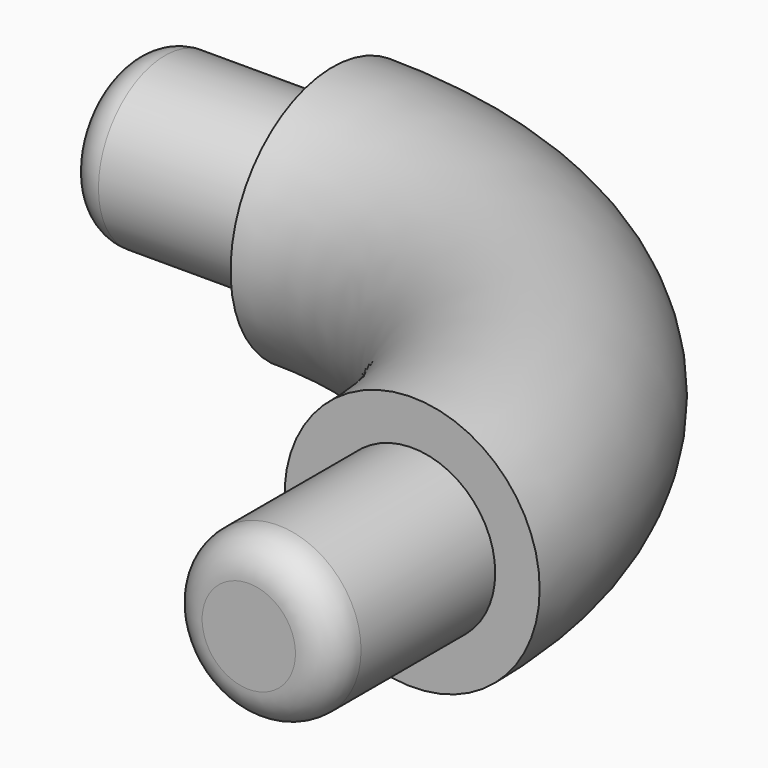
from build123d import *

# Parameters (mm, degrees)
F1_R     = 17.5
F3_R     = 11.4
F4_DEPTH = 28
F5_R     = 11.4
F6_DEPTH = 28
F7_R     = 5
F8_R     = 5


with BuildPart() as f2:
    # F2: sweep along a path in F0
    with BuildLine(Plane.XY) as f2_path:
        ThreePointArc((0, 54.5), (38.5373195747, 38.5373195747), (54.5, 0))
    # F1 (on Right) → F2 (sweep)
    with BuildSketch(Plane.YZ):
        with Locations((54.5, 0)):
            Circle(F1_R)
    sweep(path=f2_path.line)

    # F3 (on face) → F4 (join)
    with BuildSketch(Plane.XZ):
        with Locations((54.5, 0)):
            Circle(F3_R)
    extrude(amount=F4_DEPTH)

    # F5 (on face) → F6 (join)
    with BuildSketch(Plane(origin=(0, 0, 0), x_dir=(0, -1, 0), z_dir=(-1, 0, 0))):
        with Locations((-54.5, 0)):
            Circle(F5_R)
    extrude(amount=F6_DEPTH)

    # F7
    f7_edges = [f2.edges().sort_by_distance(p)[0] for p in [
        (43.1, -28, 0),
    ]]
    fillet(f7_edges, radius=F7_R)

    # F8
    f8_edges = [f2.edges().sort_by_distance(p)[0] for p in [
        (-28, 65.9, 0),
    ]]
    fillet(f8_edges, radius=F8_R)


solid = f2.part
